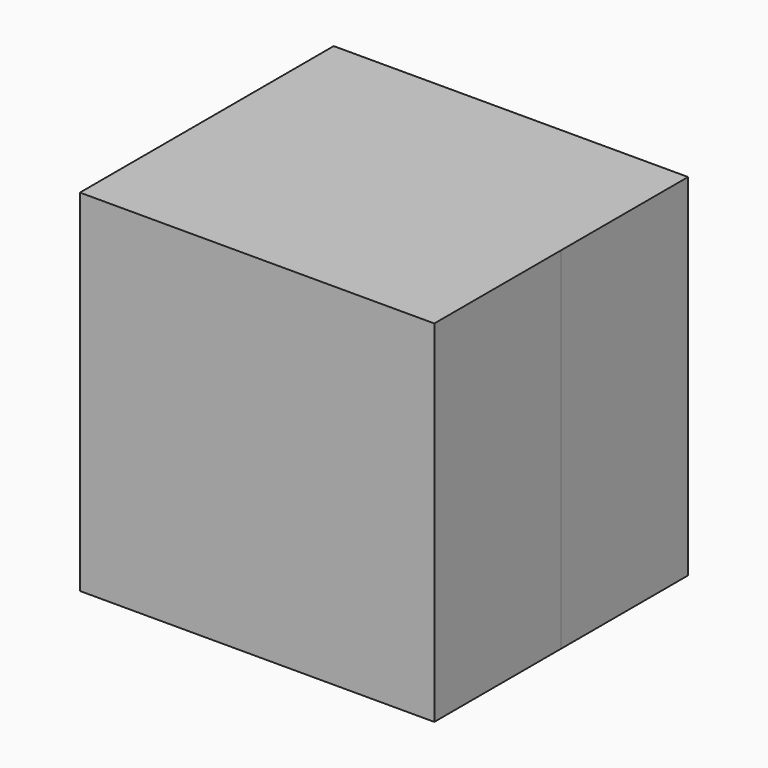
from build123d import *

# Parameters (mm, degrees)
F1_DEPTH = 50.8
F2_W     = 113.503009
F2_H     = 112.352926
F3_DEPTH = 50.8


with BuildPart() as f1:
    # F0 (on Front) → F1 (new body)
    with BuildSketch(Plane.XZ):
        Polygon((61.334081, -61.476465), (61.334081, 0), (61.334081, 50.876461), (-52.168928, 50.876461), (-52.168928, -61.476465), align=None)
    extrude(amount=F1_DEPTH)

    # F2 (on face) → F3 (join)
    with BuildSketch(Plane(origin=(0, 0, 0), x_dir=(-1, 0, 0), z_dir=(0, 1, 0))):
        with Locations((-4.582576, -5.300002)):
            Rectangle(F2_W, F2_H)
    extrude(amount=F3_DEPTH)


solid = f1.part
